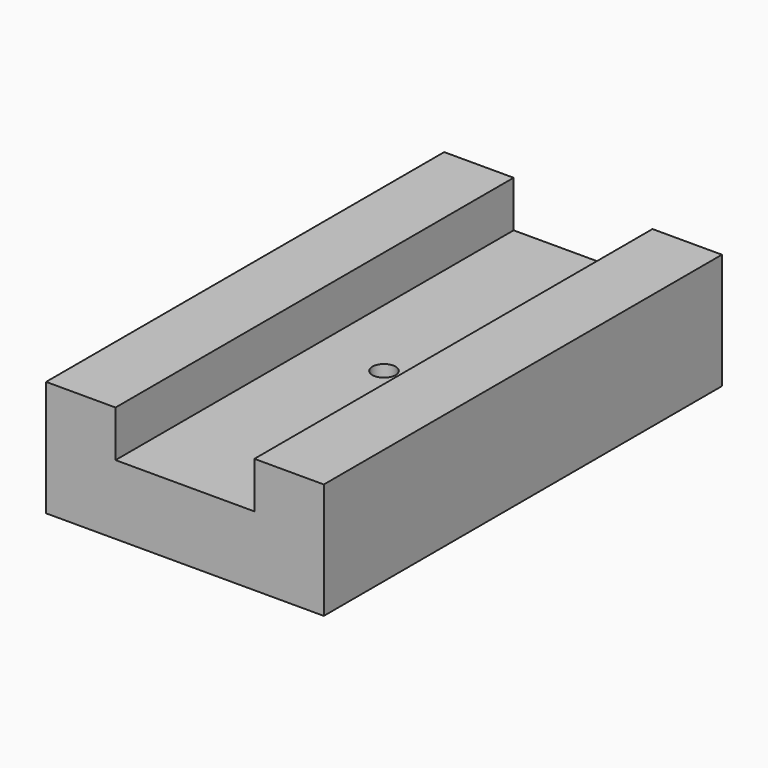
from build123d import *

# Parameters (mm, degrees)
F0_W     = 76.2
F0_H     = 31.75
F1_DEPTH = 136.525
F2_W     = 38.1
F2_H     = 12.7
F3_DEPTH = 254
F4_R     = 9.525
F5_DEPTH = 12.7
F6_R     = 3.175
F7_DEPTH = 254


with BuildPart() as f1:
    # F0 (on Front) → F1 (new body)
    with BuildSketch(Plane.XZ):
        with Locations((38.1, -15.875)):
            Rectangle(F0_W, F0_H)
    extrude(amount=F1_DEPTH)

    # F2 (on face) → F3 (cut)
    with BuildSketch(Plane.XZ.offset(136.525)):
        with Locations((38.1, -6.35)):
            Rectangle(F2_W, F2_H)
    extrude(amount=-F3_DEPTH, mode=Mode.SUBTRACT)

    # F4 (on face) → F5 (cut)
    with BuildSketch(Plane(origin=(0, 0, -31.75), x_dir=(1, 0, 0), z_dir=(0, 0, -1))):
        with Locations((38.1, 68.2625)):
            Circle(F4_R)
    extrude(amount=-F5_DEPTH, mode=Mode.SUBTRACT)

    # F6 (on face) → F7 (cut)
    with BuildSketch(Plane.XY.offset(-12.7)):
        with Locations((38.1, -68.2625)):
            Circle(F6_R)
    extrude(amount=-F7_DEPTH, mode=Mode.SUBTRACT)


solid = f1.part
